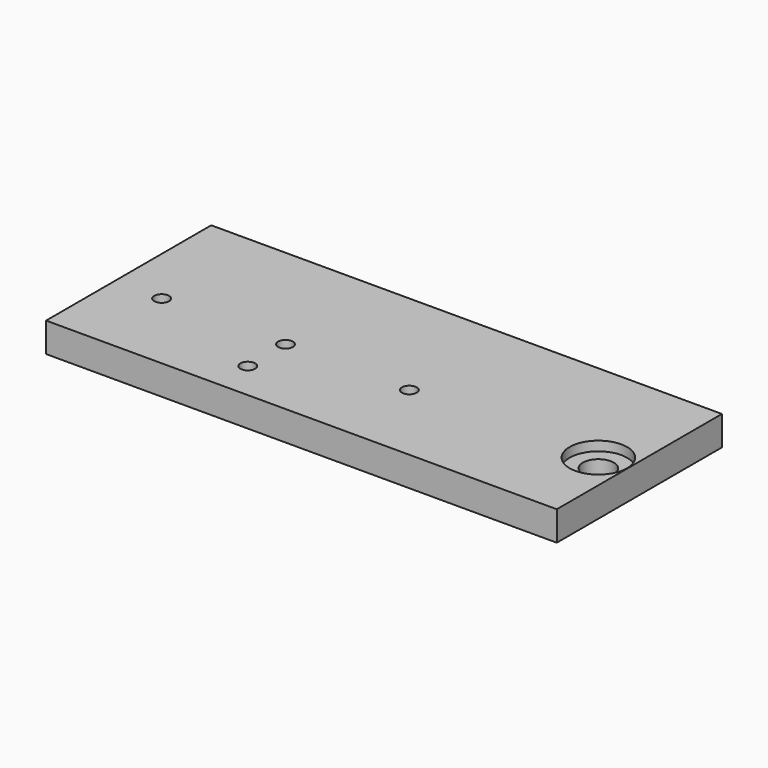
from build123d import *

# Parameters (mm, degrees)
F0_W           = 92
F0_H           = 5
F1_DEPTH       = 35
F3_D           = 5.25
F3_DEPTH       = 5
F3_CBORE_D     = 9.75
F3_CBORE_DEPTH = 1.6
F3_TIP         = 1.5772591249
F4_D           = 2.5
F4_DEPTH       = 13.5
F4_TIP         = 0.7510757738
F2_W           = 5.4
F2_H           = 35
F5_DEPTH       = 5


with BuildPart() as f1:
    # F0 (on Front) → F1 (new body)
    with BuildSketch(Plane.XZ):
        with Locations((0, 2.5)):
            Rectangle(F0_W, F0_H)
    extrude(amount=F1_DEPTH)

    # F3
    with Locations(Plane.XY.offset(5)):
        with Locations((35.65, -20)):
            CounterBoreHole(F3_D / 2, F3_CBORE_D / 2, F3_CBORE_DEPTH, depth=F3_DEPTH)
            with Locations((0, 0, -(F3_DEPTH + F3_TIP / 2))):  # 118° drill point
                Cone(0, F3_D / 2, F3_TIP, mode=Mode.SUBTRACT)

    # F4
    with Locations(Plane.XY.offset(5)):
        with Locations((-38, -20.5), (-17, -20.5), (4, -20.5), (-17, -28.5)):
            Hole(F4_D / 2, depth=F4_DEPTH)
            with Locations((0, 0, -(F4_DEPTH + F4_TIP / 2))):  # 118° drill point
                Cone(0, F4_D / 2, F4_TIP, mode=Mode.SUBTRACT)

    # F2 (on face) → F5 (cut)
    with BuildSketch(Plane.XY.offset(5)):
        with Locations((43.3, -17.5)):
            Rectangle(F2_W, F2_H)
    extrude(amount=-F5_DEPTH, mode=Mode.SUBTRACT)


solid = f1.part
